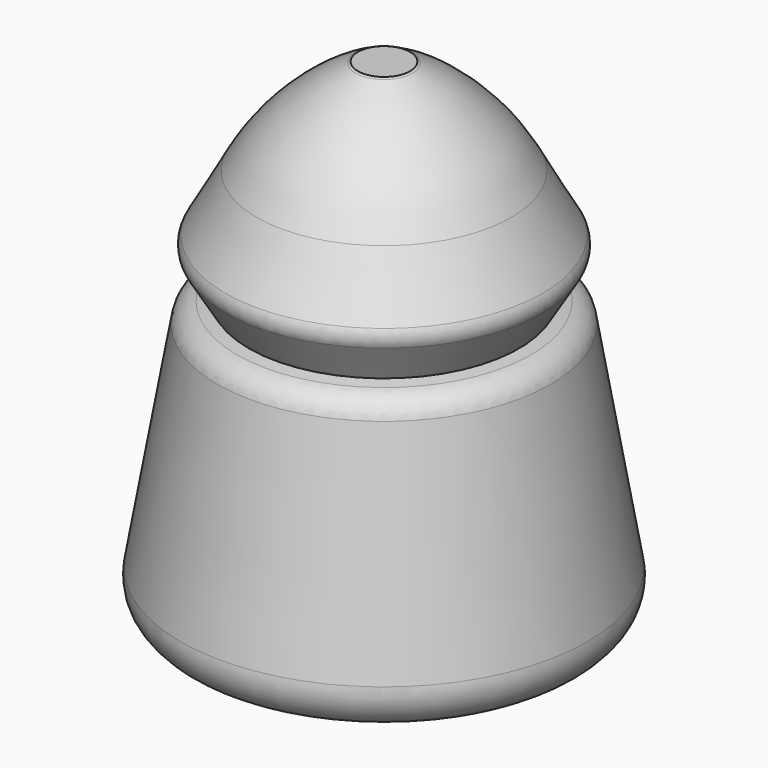
from build123d import *

# Parameters (mm, degrees)
F2_R = 8.554368
F3_R = 0.645964
F4_R = 0.880727
F5_R = 1.452178


with BuildPart() as f1:
    # F0 (on Front) → F1 (revolve)
    with BuildSketch(Plane.XZ):
        Polygon((-7.7875, 0), (0, 0), (0, 18.112501), (-0.9625, 18.112501), (-3.4125, 16.887501), (-6.0375, 12.1625), (-4.9875, 10.4125), (-6.0375, 10.2375), align=None)
    revolve(axis=Axis((0, 0, 9.056251), (0, 0, -1)))

    # F2
    f2_edges = [f1.edges().sort_by_distance(p)[0] for p in [
        (3.4125, 0, 16.887501),
    ]]
    fillet(f2_edges, radius=F2_R)

    # F3
    f3_edges = [f1.edges().sort_by_distance(p)[0] for p in [
        (6.0375, 0, 12.1625),
    ]]
    fillet(f3_edges, radius=F3_R)

    # F4
    f4_edges = [f1.edges().sort_by_distance(p)[0] for p in [
        (6.0375, 0, 10.2375),
    ]]
    fillet(f4_edges, radius=F4_R)

    # F5
    f5_edges = [f1.edges().sort_by_distance(p)[0] for p in [
        (7.7875, 0, 0),
    ]]
    fillet(f5_edges, radius=F5_R)


solid = f1.part
